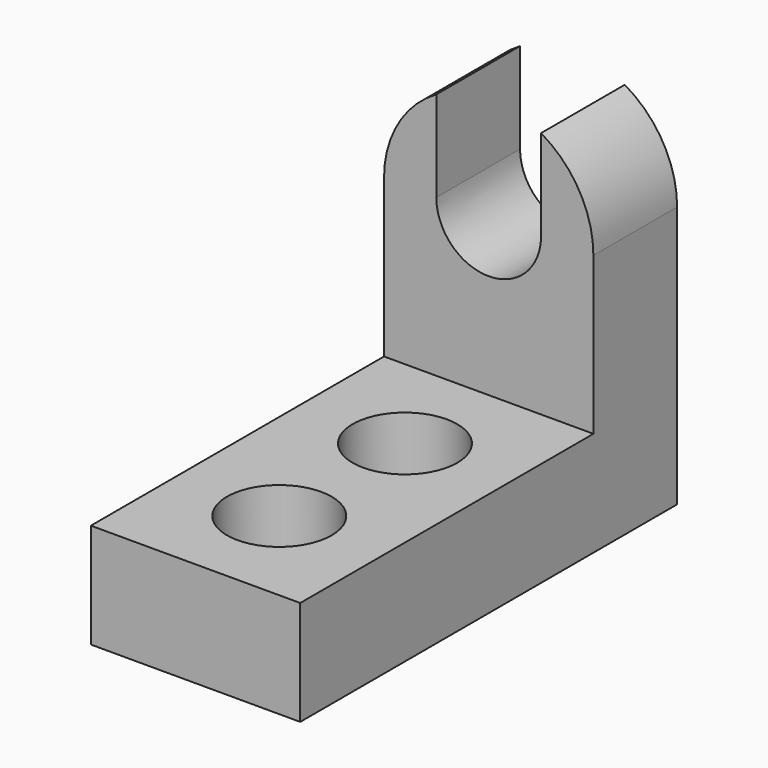
from build123d import *

# Parameters (mm, degrees)
F0_W     = 25.4
F0_H     = 57.15
F1_DEPTH = 44.45
F2_W     = 44.45
F2_H     = 31.75
F3_DEPTH = 25.4
F5_DEPTH = 25.4
F7_DEPTH = 25.4
F8_R     = 6.35
F9_DEPTH = 25.4


with BuildPart() as f1:
    # F0 (on Top) → F1 (new body)
    with BuildSketch(Plane.XY):
        with Locations((12.7, 28.575)):
            Rectangle(F0_W, F0_H)
    extrude(amount=F1_DEPTH)

    # F2 (on face) → F3 (cut)
    with BuildSketch(Plane(origin=(0, 0, 0), x_dir=(0, -1, 0), z_dir=(-1, 0, 0))):
        with Locations((-22.225, 28.575)):
            Rectangle(F2_W, F2_H)
    extrude(amount=-F3_DEPTH, mode=Mode.SUBTRACT)

    # F4 (on face) → F5 (cut)
    with BuildSketch(Plane(origin=(0, 57.15, 0), x_dir=(-1, 0, 0), z_dir=(0, 1, 0))):
        with BuildLine():
            ThreePointArc((-25.4, 31.75), (-21.6802561211, 40.7302561211), (-12.7, 44.45))
            Line((-12.7, 44.45), (-25.4, 44.45))
            Line((-25.4, 44.45), (-25.4, 31.75))
        make_face()
        with BuildLine():
            ThreePointArc((-12.7, 44.45), (-3.7197438789, 40.7302561211), (0, 31.75))
            Line((0, 31.75), (0, 44.45))
            Line((0, 44.45), (-12.7, 44.45))
        make_face()
    extrude(amount=-F5_DEPTH, mode=Mode.SUBTRACT)

    # F6 (on face) → F7 (cut)
    with BuildSketch(Plane(origin=(0, 57.15, 0), x_dir=(-1, 0, 0), z_dir=(0, 1, 0))):
        with BuildLine():
            add(Edge.make_bspline(
                [(-6.35, 31.75), (-6.35, 38.1), (-12.7, 38.1), (-19.05, 38.1), (-19.05, 31.75)],
                knots=[0, 0, 0, 1.5707963268, 1.5707963268, 3.1415926536, 3.1415926536, 3.1415926536], degree=2, weights=[1, 0.7071067812, 1, 0.7071067812, 1]))
            Line((-6.35, 31.75), (-6.35, 42.7485226281))
            ThreePointArc((-6.35, 42.7485226281), (-12.7, 44.45), (-19.05, 42.7485226281))
            Line((-19.05, 42.7485226281), (-19.05, 31.75))
        make_face()
        with BuildLine():
            add(Edge.make_bspline(
                [(-19.05, 31.75), (-19.05, 25.4), (-12.7, 25.4), (-6.35, 25.4), (-6.35, 31.75)],
                knots=[3.1415926536, 3.1415926536, 3.1415926536, 4.7123889804, 4.7123889804, 6.2831853072, 6.2831853072, 6.2831853072], degree=2, weights=[1, 0.7071067812, 1, 0.7071067812, 1]))
            add(Edge.make_bspline(
                [(-6.35, 31.75), (-6.35, 38.1), (-12.7, 38.1), (-19.05, 38.1), (-19.05, 31.75)],
                knots=[0, 0, 0, 1.5707963268, 1.5707963268, 3.1415926536, 3.1415926536, 3.1415926536], degree=2, weights=[1, 0.7071067812, 1, 0.7071067812, 1]))
        make_face()
    extrude(amount=-F7_DEPTH, mode=Mode.SUBTRACT)

    # F8 (on face) → F9 (cut)
    with BuildSketch(Plane.XY.offset(12.7)):
        with Locations((12.7, 31.75)):
            Circle(F8_R)
        with Locations((12.7, 12.7)):
            Circle(F8_R)
    extrude(amount=-F9_DEPTH, mode=Mode.SUBTRACT)


solid = f1.part
